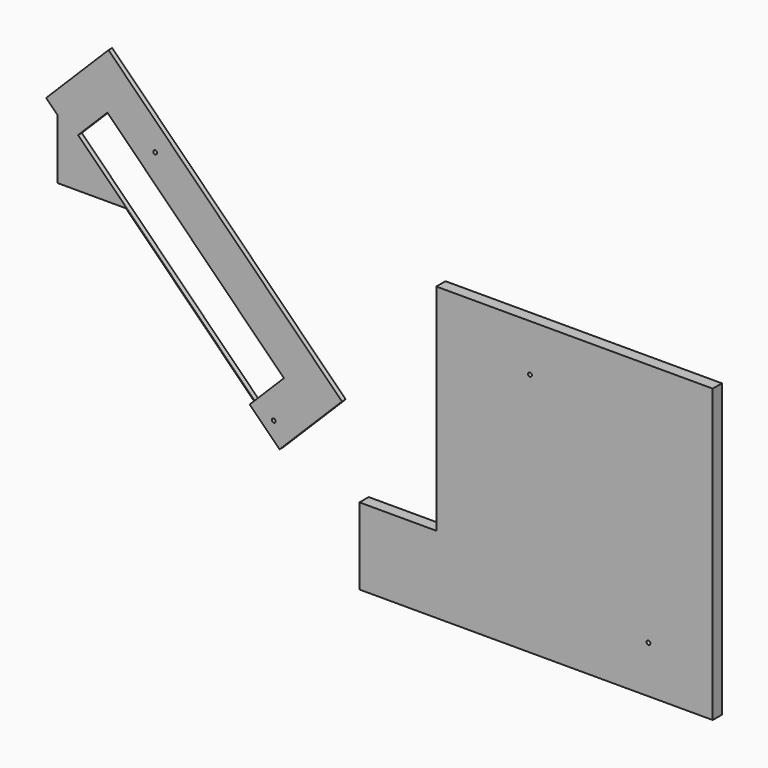
from build123d import *

# Parameters (mm, degrees)
F0_R     = 2.5
F1_DEPTH = 6
F2_DEPTH = 15


with BuildPart() as f1:
    # F0 (on Front) → F1 (new body)
    with BuildSketch(Plane.XZ):
        Polygon((-128.6939797177, 157.3802712188), (-123.0371254683, 163.0371254683), (-122.3300186871, 163.7442322494), (-108.292505006, 177.7817459305), (-149.0954544295, 177.7817459305), align=None)
        Polygon((-122.3300186871, 163.7442322494), (-123.0371254683, 163.0371254683), (-60, 100), (-60, 101.4142135624), align=None)
        Polygon((-60, 101.4142135624), (-60, 100), (106.7725784174, -66.7725784174), (107.4796851986, -66.0654716362), align=None)
        Polygon((107.4796851986, -66.0654716362), (106.7725784174, -66.7725784174), (101.1157241679, -72.4294326669), (140.0065971331, -111.3203056321), (221.3238769696, -30.0030257957), (-82.7320389406, 274.0528901145), (-164.0493187771, 192.7356102781), (-149.0954544295, 177.7817459305), (-108.292505006, 177.7817459305), (-84.146252503, 201.9279984335), (-60, 177.7817459305), (145.6634513826, -27.8817054521), align=None)
        with Locations((132.397642024, -80.7454945572)):
            Circle(F0_R, mode=Mode.SUBTRACT)
        with Locations((-21.9510846043, 176.5023831565)):
            Circle(F0_R, mode=Mode.SUBTRACT)
        Polygon((-60, 100), (-123.0371254683, 163.0371254683), (-128.6939797177, 157.3802712188), (-149.0954544295, 177.7817459305), (-149.0954544295, 100), align=None)
    extrude(amount=F1_DEPTH)


with BuildPart() as f2:
    # F0 (on Front) → F2 (new body)
    with BuildSketch(Plane.XZ):
        Polygon((711.3218307495, 147.7958011627), (351.3218307495, 147.7958011627), (351.3218307495, -132.2041988373), (251.3218307495, -132.2041988373), (251.3218307495, -232.2041988373), (711.3218307495, -232.2041988373), align=None)
        with Locations((627.6697307495, -170.7794988373)):
            Circle(F0_R, mode=Mode.SUBTRACT)
        with Locations((473.3210041213, 86.4683788765)):
            Circle(F0_R, mode=Mode.SUBTRACT)
    extrude(amount=F2_DEPTH)


solid = Compound([f1.part, f2.part])
